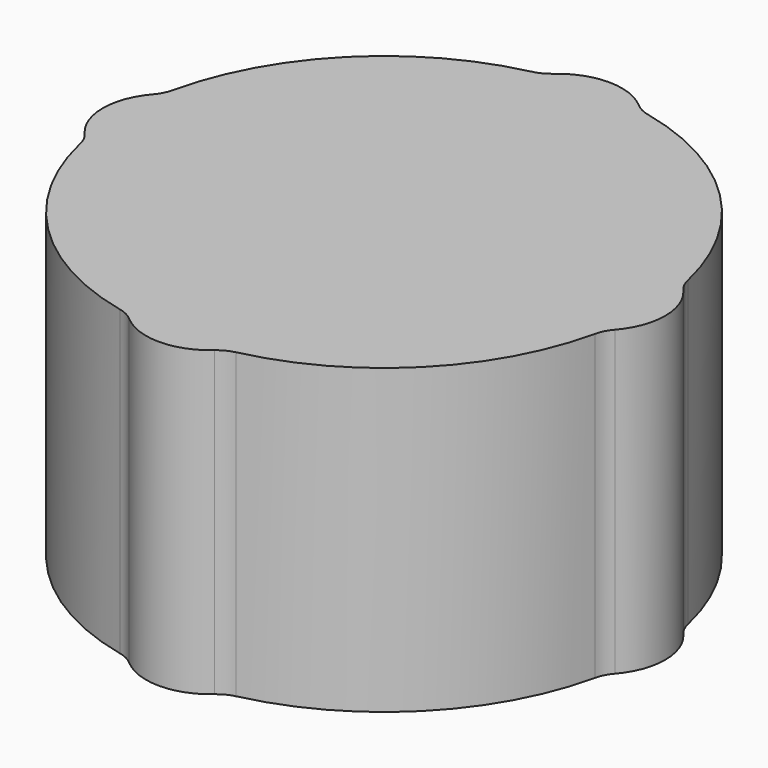
from build123d import *

# Parameters (mm, degrees)
CYLINDER004_R     = 0.75
CYLINDER004_DEPTH = 10
CYLINDER005_R     = 0.75
CYLINDER005_DEPTH = 10
CYLINDER006_R     = 0.75
CYLINDER006_DEPTH = 10
CYLINDER003_R     = 0.75
CYLINDER003_DEPTH = 10
CYLINDER002_R     = 3.05
CYLINDER002_DEPTH = 10
FILLET_R          = 0.4
CYLINDER007_R     = 4
CYLINDER007_DEPTH = 3.5


with BuildPart() as cylinder004:
    # Cylinder004 → Cylinder004 (new body)
    with BuildSketch(Plane(origin=(0, -2.5, 0), x_dir=(1, 0, 0), z_dir=(0, 0, 1))):
        Circle(CYLINDER004_R)
    extrude(amount=CYLINDER004_DEPTH)


with BuildPart() as cylinder005:
    # Cylinder005 → Cylinder005 (new body)
    with BuildSketch(Plane(origin=(2.5, 0, 0), x_dir=(1, 0, 0), z_dir=(0, 0, 1))):
        Circle(CYLINDER005_R)
    extrude(amount=CYLINDER005_DEPTH)


with BuildPart() as cylinder006:
    # Cylinder006 → Cylinder006 (new body)
    with BuildSketch(Plane(origin=(-2.5, 0, 0), x_dir=(1, 0, 0), z_dir=(0, 0, 1))):
        Circle(CYLINDER006_R)
    extrude(amount=CYLINDER006_DEPTH)


with BuildPart() as fusion002:
    # Cylinder003 → Cylinder003 (new body)
    with BuildSketch(Plane(origin=(0, 2.5, 0), x_dir=(1, 0, 0), z_dir=(0, 0, 1))):
        Circle(CYLINDER003_R)
    extrude(amount=CYLINDER003_DEPTH)

    # Fusion002: union Cylinder004, Cylinder005, Cylinder006
    add(cylinder004.part)
    add(cylinder005.part)
    add(cylinder006.part)


with BuildPart() as magnet_cut:
    # Cylinder002 → Cylinder002 (new body)
    with BuildSketch(Plane.XY):
        Circle(CYLINDER002_R)
    extrude(amount=CYLINDER002_DEPTH)

    # Fusion003: union Fusion002
    add(fusion002.part)

    # Fillet
    fillet_edges = [magnet_cut.edges().sort_by_distance(p)[0] for p in [
        (2.998, -0.560799, 5),
        (2.998, 0.560799, 5),
        (0.560799, -2.998, 5),
        (-0.560799, -2.998, 5),
        (-2.998, -0.560799, 5),
        (-2.998, 0.560799, 5),
        (-0.560799, 2.998, 5),
        (0.560799, 2.998, 5),
    ]]
    fillet(fillet_edges, radius=FILLET_R)


with BuildPart() as common:
    # Cylinder007 → Cylinder007 (new body)
    with BuildSketch(Plane.XY):
        Circle(CYLINDER007_R)
    extrude(amount=CYLINDER007_DEPTH)

    # Common: intersect magnet-cut
    add(magnet_cut.part, mode=Mode.INTERSECT)


solid = common.part
